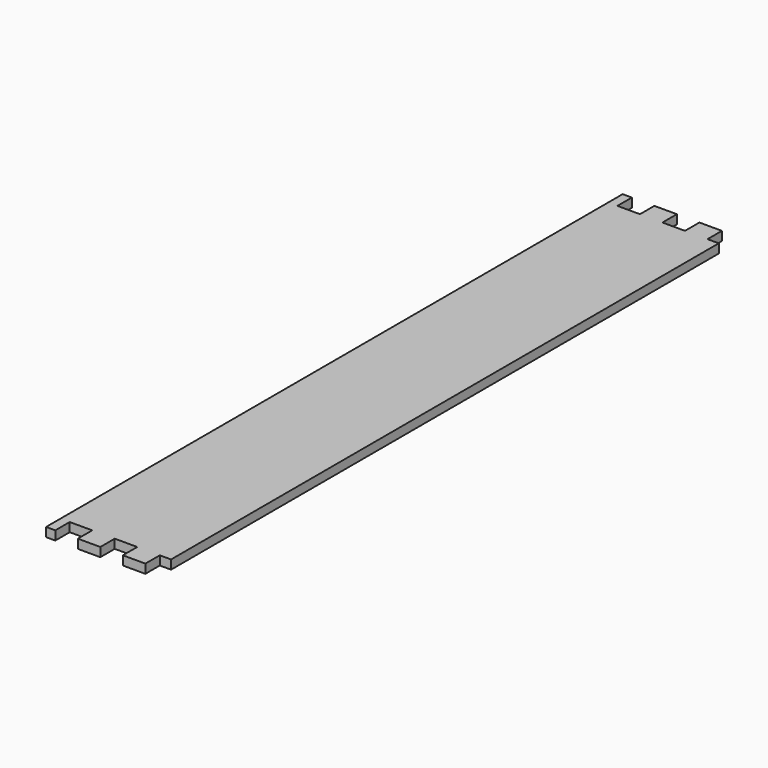
from build123d import *

# Parameters (mm, degrees)
F1_DEPTH = 2
F3_DEPTH = 5
F4_W     = 28.972704
F4_H     = 205.101743
F5_DEPTH = 25


with BuildPart() as f1:
    # F0 (on Top) → F1 (new body)
    with BuildSketch(Plane.XY):
        Polygon((-24.541279, -80), (0, -80), (24.541279, -80), (24.541279, 0), (24.541279, 80), (0, 80), (-24.541279, 80), (-24.541279, 0), align=None)
    extrude(amount=F1_DEPTH)

    # F2 (on face) → F3 (cut)
    with BuildSketch(Plane.XY.offset(2)):
        Polygon((2.5, -76), (0, -76), (-2.5, -76), (-2.5, -80), (-7.5, -80), (-7.5, -76), (-12.5, -76), (-12.5, -80), (-17.5, -80), (-17.5, -76), (-22.5, -76), (-22.5, -80), (-22.5, -83.697788), (22.5, -83.697788), (22.5, -80), (22.5, -76), (17.5, -76), (17.5, -80), (12.5, -80), (12.5, -76), (7.5, -76), (7.5, -80), (2.5, -80), align=None)
        Polygon((-22.5, 80), (-22.5, 76), (-17.5, 76), (-17.5, 80), (-12.5, 80), (-12.5, 76), (-7.5, 76), (-7.5, 80), (-2.5, 80), (-2.5, 76), (0, 76), (2.5, 76), (2.5, 80), (7.5, 80), (7.5, 76), (12.5, 76), (12.5, 80), (17.5, 80), (17.5, 76), (22.5, 76), (22.5, 80), (22.5, 83.697788), (-22.5, 83.697788), align=None)
    extrude(amount=-F3_DEPTH, mode=Mode.SUBTRACT)

    # F4 (on face) → F5 (cut)
    with BuildSketch(Plane.XY.offset(2)):
        with Locations((14.486352, 8.12903)):
            Rectangle(F4_W, F4_H)
    extrude(amount=-F5_DEPTH, mode=Mode.SUBTRACT)


solid = f1.part
